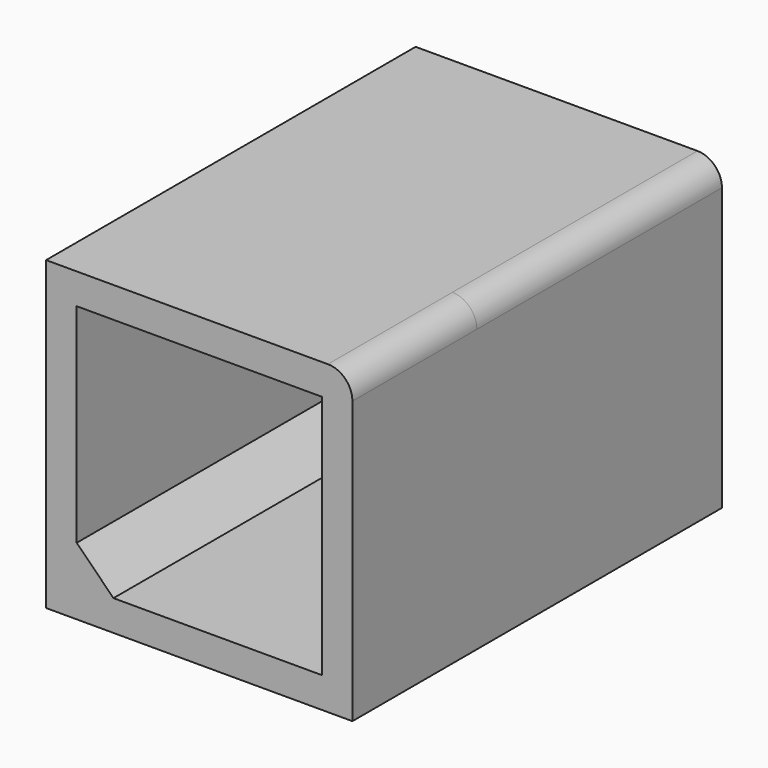
from build123d import *

# Parameters (mm, degrees)
F0_W     = 1270
F0_H     = 1270
F0_W_2   = 1016
F0_H_2   = 1016
F1_DEPTH = 635
F2_R     = 101.6
F3_SIZE  = 152.4
F4_DEPTH = 645.067396


with BuildPart() as f1:
    # F0 (on Front) → F1 (new body, symmetric)
    with BuildSketch(Plane.XZ):
        Rectangle(F0_W, F0_H)
        Rectangle(F0_W_2, F0_H_2, mode=Mode.SUBTRACT)
    extrude(amount=F1_DEPTH, both=True)

    # F2
    f2_edges = [f1.edges().sort_by_distance(p)[0] for p in [
        (635, 0, 635),
    ]]
    fillet(f2_edges, radius=F2_R)

    # F3
    f3_edges = [f1.edges().sort_by_distance(p)[0] for p in [
        (-508, 0, -508),
    ]]
    chamfer(f3_edges, length=F3_SIZE)

    # F1_face (on face) → F4 (join)
    with BuildSketch(Plane(origin=(-11.297191, -635, -11.297191), x_dir=(1, 0, 0), z_dir=(0, -1, 0))):
        with BuildLine():
            Line((646.297191, -623.702809), (646.297191, 544.697191))
            ThreePointArc((646.297191, 544.697191), (616.53924, 616.53924), (544.697191, 646.297191))
            Line((544.697191, 646.297191), (-623.702809, 646.297191))
            Line((-623.702809, 646.297191), (-623.702809, -623.702809))
            Line((-623.702809, -623.702809), (646.297191, -623.702809))
        make_face()
        Polygon((519.297191, -496.702809), (-344.302809, -496.702809), (-496.702809, -344.302809), (-496.702809, 519.297191), (519.297191, 519.297191), align=None, mode=Mode.SUBTRACT)
    extrude(amount=F4_DEPTH)


solid = f1.part
